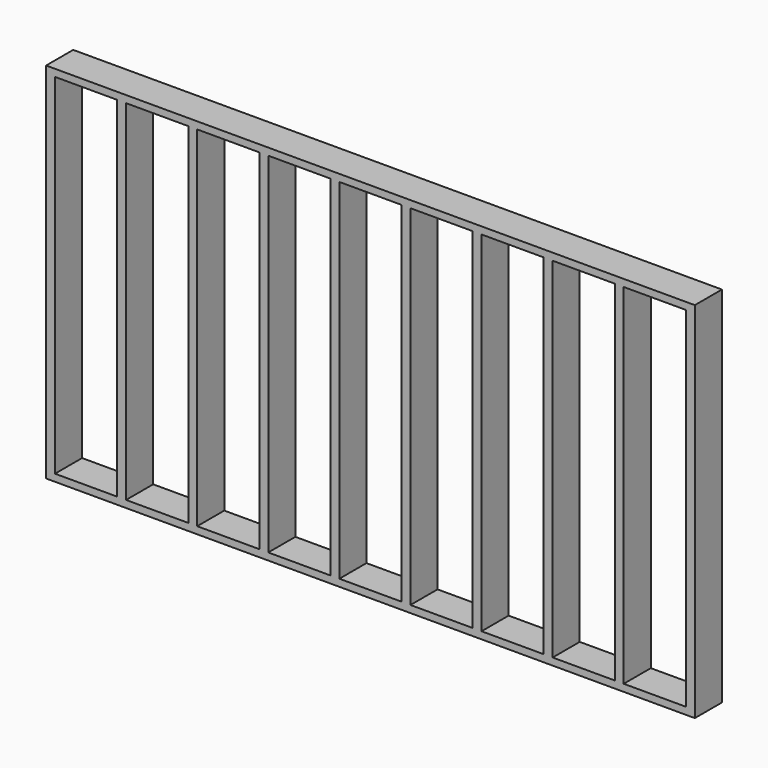
from build123d import *

# Parameters (mm, degrees)
F0_W     = 3640
F0_H     = 40
F1_DEPTH = 190
F2_DEPTH = 190
F3_W     = 50
F3_H     = 1960
F4_DEPTH = 190


with BuildPart() as f1:
    # F0 (on Front) → F1 (new body)
    with BuildSketch(Plane.XZ):
        with Locations((0, 20)):
            Rectangle(F0_W, F0_H)
    extrude(amount=F1_DEPTH)



with BuildPart() as f2:
    # F0 (on Front) → F2 (new body)
    with BuildSketch(Plane.XZ):
        with Locations((0, 2020)):
            Rectangle(F0_W, F0_H)
    extrude(amount=F2_DEPTH)


with BuildPart() as f1_1:
    add(f1.part)

    add(f2.part)  # F4 merges F2
    # F3 (on Front) → F4 (join)
    with BuildSketch(Plane.XZ):
        with Locations((1795, 1020)):
            Rectangle(F3_W, F3_H)
        with Locations((1396.1, 1020)):
            Rectangle(F3_W, F3_H)
        with Locations((997.2, 1020)):
            Rectangle(F3_W, F3_H)
        with Locations((598.3, 1020)):
            Rectangle(F3_W, F3_H)
        with Locations((199.4, 1020)):
            Rectangle(F3_W, F3_H)
        with Locations((-199.5, 1020)):
            Rectangle(F3_W, F3_H)
        with Locations((-598.4, 1020)):
            Rectangle(F3_W, F3_H)
        with Locations((-997.3, 1020)):
            Rectangle(F3_W, F3_H)
        with Locations((-1396.2, 1020)):
            Rectangle(F3_W, F3_H)
        with Locations((-1795.1, 1020)):
            Rectangle(F3_W, F3_H)
    extrude(amount=F4_DEPTH)


solid = f1_1.part
